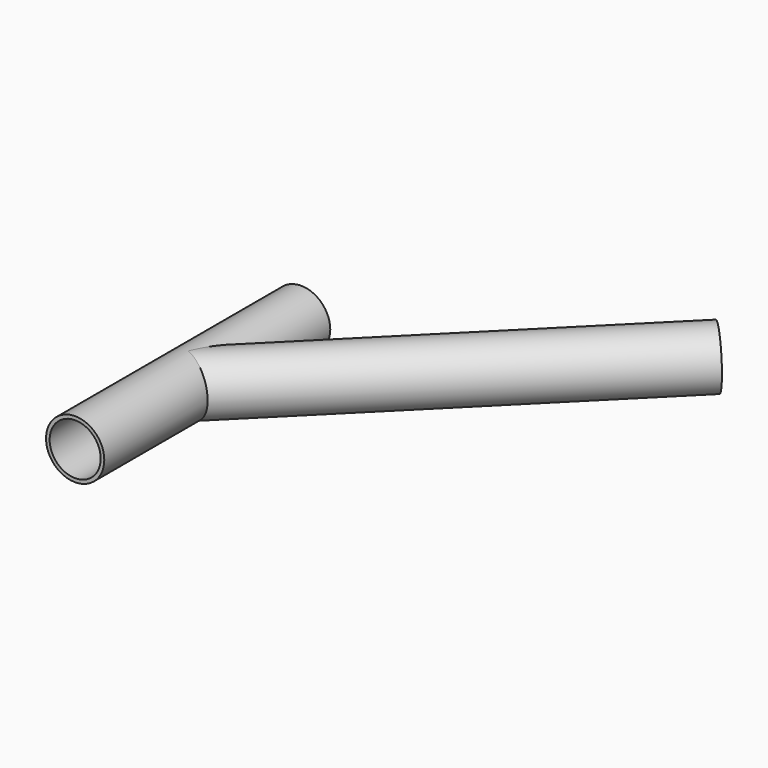
from build123d import *

# Parameters (mm, degrees)
F0_R          = 44.45
F0_R_2        = 38.9636
F1_DEPTH      = 215.519
F1_DEPTH_BACK = 215.519
F3_R          = 44.45
F3_R_2        = 38.9636
F4_DEPTH      = 635


with BuildPart() as f1:
    # F0 (on Front) → F1 (new body, two sides)
    with BuildSketch(Plane.XZ) as f1_sk:
        Circle(F0_R)
        Circle(F0_R_2, mode=Mode.SUBTRACT)
    extrude(amount=F1_DEPTH)
    extrude(f1_sk.sketch, amount=-F1_DEPTH_BACK)

    # F3 (on face) → F4 (join)
    with BuildSketch(Plane(origin=(0, 0, 0), x_dir=(-0.7071067812, 0.7071067812, 0), z_dir=(0.7071067812, 0.7071067812, 0))):
        Circle(F3_R)
        Circle(F3_R_2, mode=Mode.SUBTRACT)
    extrude(amount=F4_DEPTH)


solid = f1.part
